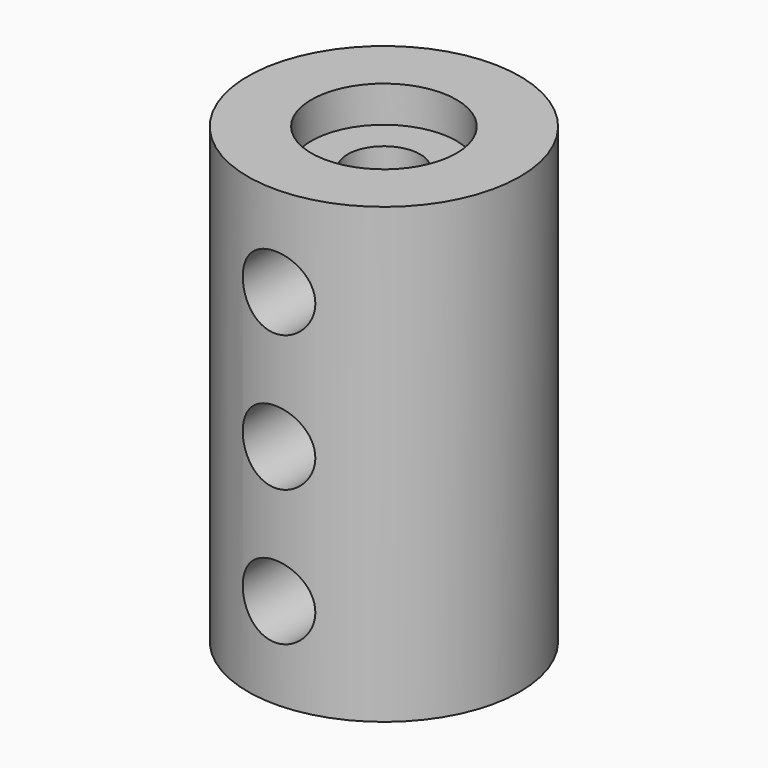
from build123d import *

# Parameters (mm, degrees)
F0_R     = 7.5
F0_R_2   = 2
F1_DEPTH = 12.5
F2_R     = 2
F3_DEPTH = 25
F4_R     = 4
F5_DEPTH = 2


with BuildPart() as f1:
    # F0 (on Top) → F1 (new body, symmetric)
    with BuildSketch(Plane.XY):
        Circle(F0_R)
        Circle(F0_R_2, mode=Mode.SUBTRACT)
    extrude(amount=F1_DEPTH, both=True)

    # F2 (on Front) → F3 (cut)
    with BuildSketch(Plane.XZ):
        with Locations((0, 7.5)):
            Circle(F2_R)
        with Locations((0, -7.5)):
            Circle(F2_R)
        Circle(F2_R)
    extrude(amount=F3_DEPTH, mode=Mode.SUBTRACT)

    # F4 (on face) → F5 (cut)
    with BuildSketch(Plane.XY.offset(12.5)):
        Circle(F4_R)
    extrude(amount=-F5_DEPTH, mode=Mode.SUBTRACT)


solid = f1.part
